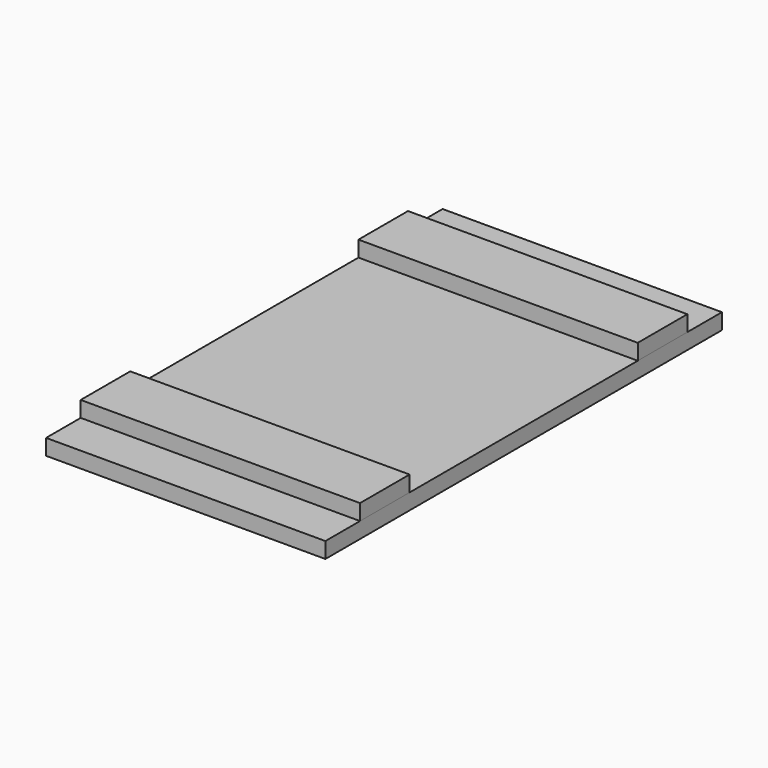
from build123d import *

# Parameters (mm, degrees)
F1_W     = 118.4
F1_H     = 210.1
F2_DEPTH = 6.7
F3_W     = 118.4
F3_H     = 26.25
F4_DEPTH = 6.7


with BuildPart() as f2:
    # F1 (on Top) → F2 (new body)
    with BuildSketch(Plane.XY):
        Rectangle(F1_W, F1_H)
    extrude(amount=F2_DEPTH)


with BuildPart() as f4:
    # F3 (on face) → F4 (new body)
    with BuildSketch(Plane.XY.offset(6.7)):
        with Locations((0, -73.578)):
            Rectangle(F3_W, F3_H)
    extrude(amount=F4_DEPTH)


with BuildPart() as f4b:
    # F3 (on face) → F4, piece 2 (new body)
    with BuildSketch(Plane.XY.offset(6.7)):
        with Locations((0, 73.578)):
            Rectangle(F3_W, F3_H)
    extrude(amount=F4_DEPTH)


solid = Compound([f2.part, f4.part, f4b.part])
